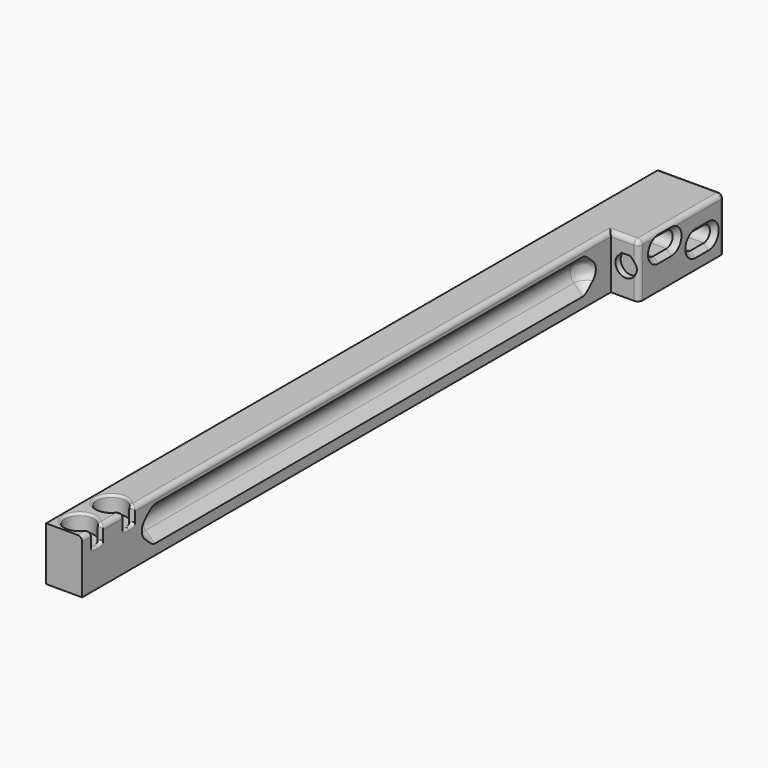
from build123d import *

# Parameters (mm, degrees)
BOX_W                    = 3
BOX_H                    = 124
BOX_DEPTH                = 8
FILLET005_R              = 2
PAD004_DEPTH             = 20
ARRAY_COUNT              = 4
ARRAY001_X_COUNT         = 2
ARRAY001_X_PITCH         = 9.414214
ARRAY001_Y_COUNT         = 14
ARRAY001_Y_PITCH         = 9.414214
ARRAY001_PITCH_ANGLE     = -45
PAD009_DEPTH             = 1.4
CLONE017_ROLL_ANGLE      = 90
CLONE017_PLACEMENT_ANGLE = 180
REVOLUTION001_ANGLE      = -90
PAD008_DEPTH             = 1.75
CLONE015_PITCH_ANGLE     = 90
CLONE015_PLACEMENT_ANGLE = -90
CLONE014_PITCH_ANGLE     = 90
CLONE014_PLACEMENT_ANGLE = -90
CLONE001_ROLL_ANGLE      = 90
CLONE_ROLL_ANGLE         = 90
FILLET003_R              = 2.6
CLONE007_ROLL_ANGLE      = 90
SKETCH015_W              = 165
SKETCH015_H              = 11.5
PAD007_DEPTH             = 7.75
SKETCH_W                 = 23
SKETCH_H                 = 11.5
PAD_DEPTH                = 6
FILLET_R                 = 1
FILLET004_R              = 0.5


with BuildPart() as obj1:
    # Box → Box (new body)
    with BuildSketch(Plane(origin=(0, 18, 2), x_dir=(1, 0, 0), z_dir=(0, 0, 1))):
        with Locations((1.5, 62)):
            Rectangle(BOX_W, BOX_H)
    extrude(amount=BOX_DEPTH)

    # Fillet005
    fillet005_edges = [obj1.edges().sort_by_distance(p)[0] for p in [
        (1.5, 18, 2),
        (1.5, 18, 10),
        (1.5, 142, 2),
        (1.5, 142, 10),
    ]]
    fillet(fillet005_edges, radius=FILLET005_R)


with BuildPart() as polarpattern:
    # Sketch012 → Pad004 (new body)
    with BuildSketch(Plane.XY):
        Polygon((1.207107, 0.5), (4.207107, 3.5), (4.207107, 0.5), align=None)
    extrude(amount=PAD004_DEPTH)

    # Array: PolarPattern ×4 about axis
    array_axis = Axis((0, 0, 0), (0, 0, 1))


with BuildPart() as polarpattern_1:
    add(polarpattern.part)
    for i in range(1, ARRAY_COUNT):
        add(polarpattern.part.rotate(array_axis, i * 360 / ARRAY_COUNT))


with BuildPart() as obj2:
    # Part__Mirroring001: instance of PolarPattern
    add(polarpattern_1.part.mirror(Plane(origin=(0, 0, 0), x_dir=(0, -1, 0), z_dir=(1, 0, 0))))

    # Compound: union PolarPattern
    add(polarpattern_1.part)

    # Array001 X: obj2_2


with BuildPart() as obj2_1:
    add(obj2.part)
    with Locations(*[(i * ARRAY001_X_PITCH, 0, 0) for i in range(1, ARRAY001_X_COUNT)]):
        add(obj2.part)

    # Array001 Y: obj2 ×14


with BuildPart() as obj2_2:
    add(obj2_1.part)
    with Locations(*[(0, i * ARRAY001_Y_PITCH, 0) for i in range(1, ARRAY001_Y_COUNT)]):
        add(obj2_1.part)


with BuildPart() as obj2_3:
    # Array001 pitch: moved
    add(obj2_2.part.rotate(Axis((0, 0, 0), (0, 1, 0)), ARRAY001_PITCH_ANGLE))


with BuildPart() as obj2_4:
    # Array001 placement: moved
    add(obj2_3.part.moved(Location((2, 22, -4))))

    # Common: intersect obj1
    add(obj1.part, mode=Mode.INTERSECT)


with BuildPart() as clone_of_magnetslot001:
    # Sketch019 → Pad009 (new body)
    with BuildSketch(Plane.XY):
        with BuildLine():
            ThreePointArc((-1.590999, 1.590981), (0, -2.25), (1.590999, 1.590981))
            Line((0.931981, 2.25), (1.590999, 1.590981))
            Line((-0.931981, 2.25), (0.931981, 2.25))
            Line((-1.590999, 1.590981), (-0.931981, 2.25))
        make_face()
    extrude(amount=PAD009_DEPTH)


with BuildPart() as clone_of_magnetslot001_1:
    # Clone017 roll: moved
    add(clone_of_magnetslot001.part.rotate(Axis((0, 0, 0), (1, 0, 0)), CLONE017_ROLL_ANGLE))


with BuildPart() as clone_of_magnetslot001_2:
    # Clone017 placement: moved
    add(clone_of_magnetslot001_1.part.moved(Location((11, 142, 6))).rotate(Axis((11, 142, 6), (0, 0, 1)), CLONE017_PLACEMENT_ANGLE))


with BuildPart() as m3din7991slot001:
    # Clone2D → Revolution001 (revolve)
    with BuildSketch(Plane.XY.offset(1.75)):
        Polygon((0, 0), (3, 0), (1.7, -1.3), (1.7, -40), (0, -40), align=None)
    revolve(axis=Axis((0, 0, 1.75), (0, 1, 0)), revolution_arc=REVOLUTION001_ANGLE)


with BuildPart() as slotquarter:
    # Sketch016 → Pad008 (new body)
    with BuildSketch(Plane.XY):
        Polygon((0, 0), (3, 0), (1.7, -1.3), (1.7, -40), (0, -40), align=None)
    extrude(amount=PAD008_DEPTH)

    # Fusion001: union M3DIN7991Slot001
    add(m3din7991slot001.part)


with BuildPart() as part_mirroring002:
    # Part__Mirroring002: instance of SlotQuarter
    add(slotquarter.part.mirror(Plane(origin=(0, 0, 0), x_dir=(0, -1, 0), z_dir=(1, 0, 0))))


with BuildPart() as fusion002:
    # Fusion002 base: copy of SlotQuarter
    add(slotquarter.part)

    # Fusion002: union Part__Mirroring002
    add(part_mirroring002.part)


with BuildPart() as part_mirroring003:
    # Part__Mirroring003: instance of Fusion002
    add(fusion002.part.mirror(Plane(origin=(0, 0, 0), x_dir=(0, 1, 0), z_dir=(0, 0, 1))))


with BuildPart() as refine_m3din7991boltslot:
    # Fusion003 base: copy of Fusion002
    add(fusion002.part)

    # Fusion003: union Part__Mirroring003
    add(part_mirroring003.part)


with BuildPart() as clone_of_refine_m3din7991boltslot001:
    # Clone015 base: copy of refine_M3DIN7991BoltSlot
    add(refine_m3din7991boltslot.part)


with BuildPart() as clone_of_refine_m3din7991boltslot001_1:
    # Clone015 pitch: moved
    add(clone_of_refine_m3din7991boltslot001.part.rotate(Axis((0, 0, 0), (0, 1, 0)), CLONE015_PITCH_ANGLE))


with BuildPart() as clone_of_refine_m3din7991boltslot001_2:
    # Clone015 placement: moved
    add(clone_of_refine_m3din7991boltslot001_1.part.moved(Location((14, 149, 8))).rotate(Axis((14, 149, 8), (0, 0, 1)), CLONE015_PLACEMENT_ANGLE))


with BuildPart() as clone_of_refine_m3din7991boltslot:
    # Clone014 base: copy of refine_M3DIN7991BoltSlot
    add(refine_m3din7991boltslot.part)


with BuildPart() as clone_of_refine_m3din7991boltslot_1:
    # Clone014 pitch: moved
    add(clone_of_refine_m3din7991boltslot.part.rotate(Axis((0, 0, 0), (0, 1, 0)), CLONE014_PITCH_ANGLE))


with BuildPart() as clone_of_refine_m3din7991boltslot_2:
    # Clone014 placement: moved
    add(clone_of_refine_m3din7991boltslot_1.part.moved(Location((14, 159, 5))).rotate(Axis((14, 159, 5), (0, 0, 1)), CLONE014_PLACEMENT_ANGLE))


with BuildPart() as din912m3bolt001:
    # Sketch001 → Revolution (revolve)
    with BuildSketch(Plane.XY):
        Polygon((0, 4), (3.1, 4), (3.1, 0), (1.4, 0), (1.4, -20), (0, -20), align=None)
    revolve(axis=Axis((0, 0, 0), (0, 1, 0)))


with BuildPart() as clone_of_din912m3bolt002:
    # Clone001 base: copy of DIN912M3Bolt001
    add(din912m3bolt001.part)


with BuildPart() as clone_of_din912m3bolt002_1:
    # Clone001 roll: moved
    add(clone_of_din912m3bolt002.part.rotate(Axis((0, 0, 0), (1, 0, 0)), CLONE001_ROLL_ANGLE))


with BuildPart() as clone_of_din912m3bolt002_2:
    # Clone001 placement: moved
    add(clone_of_din912m3bolt002_1.part.moved(Location((4, 12.5, 8))))


with BuildPart() as clone_of_din912m3bolt001:
    # Clone base: copy of DIN912M3Bolt001
    add(din912m3bolt001.part)


with BuildPart() as clone_of_din912m3bolt001_1:
    # Clone roll: moved
    add(clone_of_din912m3bolt001.part.rotate(Axis((0, 0, 0), (1, 0, 0)), CLONE_ROLL_ANGLE))


with BuildPart() as clone_of_din912m3bolt001_2:
    # Clone placement: moved
    add(clone_of_din912m3bolt001_1.part.moved(Location((4, 4, 8))))


with BuildPart() as railfillet:
    # Sweep: sweep along a path in Sketch005
    with BuildLine(Plane.XZ) as sweep_path:
        Line((6.5, 0), (6.5, 57.5))
        ThreePointArc((6.5, 57.5), (7.671565, 60.328443), (10.500001, 61.500024))
        Line((10.500001, 61.500024), (18.500001, 61.500024))
    # Sketch011 → Sweep (sweep)
    with BuildSketch(Plane.XY):
        Polygon((10.2, 4.366273), (5.833727, 0), (10.2, -4.366273), align=None)
    sweep(path=sweep_path.line)

    # Fillet003
    fillet003_edges = [railfillet.edges().sort_by_distance(p)[0] for p in [
        (14.500005, 1.3e-05, 62.166285),
    ]]
    fillet(fillet003_edges, radius=FILLET003_R)


with BuildPart() as clone_of_guide:
    # Part__Mirroring: instance of RailFillet
    add(railfillet.part.mirror(Plane(origin=(0, 0, 0), x_dir=(0, 1, 0), z_dir=(0, 0, 1))))

    # Fusion: union RailFillet
    add(railfillet.part)


with BuildPart() as clone_of_guide_1:
    # Clone007 roll: moved
    add(clone_of_guide.part.rotate(Axis((0, 0, 0), (1, 0, 0)), CLONE007_ROLL_ANGLE))


with BuildPart() as clone_of_guide_2:
    # Clone007 placement: moved
    add(clone_of_guide_1.part.moved(Location((-1.835, 77, 6))))


with BuildPart() as drawerguide:
    # Sketch015 → Pad007 (new body)
    with BuildSketch(Plane.YZ):
        with Locations((82.5, 5.75)):
            Rectangle(SKETCH015_W, SKETCH015_H)
    extrude(amount=PAD007_DEPTH)

    # Sketch → Pad (new body)
    with BuildSketch(Plane.YZ.offset(7.75)):
        with Locations((153.5, 5.75)):
            Rectangle(SKETCH_W, SKETCH_H)
    extrude(amount=PAD_DEPTH)

    # Fillet
    fillet_edges = [drawerguide.edges().sort_by_distance(p)[0] for p in [
        (0, 165, 5.75),
        (7.75, 71, 11.5),
        (13.75, 142, 5.75),
        (10.75, 142, 11.5),
        (13.75, 153.5, 11.5),
        (13.75, 165, 5.75),
        (6.875, 165, 11.5),
    ]]
    fillet(fillet_edges, radius=FILLET_R)

    # Cut: cut Clone of Guide
    add(clone_of_guide_2.part, mode=Mode.SUBTRACT)

    # Cut001: cut Clone of DIN912M3Bolt001
    add(clone_of_din912m3bolt001_2.part, mode=Mode.SUBTRACT)

    # Cut002: cut Clone of DIN912M3Bolt002
    add(clone_of_din912m3bolt002_2.part, mode=Mode.SUBTRACT)

    # Fillet004
    fillet004_edges = [drawerguide.edges().sort_by_distance(p)[0] for p in [
        (7.011198, 11.763327, 11.465285),
        (7.011198, 3.263327, 11.465285),
    ]]
    fillet(fillet004_edges, radius=FILLET004_R)

    # Cut003: cut Clone of refine_M3DIN7991BoltSlot
    add(clone_of_refine_m3din7991boltslot_2.part, mode=Mode.SUBTRACT)

    # Cut004: cut Clone of refine_M3DIN7991BoltSlot001
    add(clone_of_refine_m3din7991boltslot001_2.part, mode=Mode.SUBTRACT)

    # Cut006: cut Clone of MagnetSlot001
    add(clone_of_magnetslot001_2.part, mode=Mode.SUBTRACT)

    # Cut005: cut obj2
    add(obj2_4.part, mode=Mode.SUBTRACT)


solid = drawerguide.part
